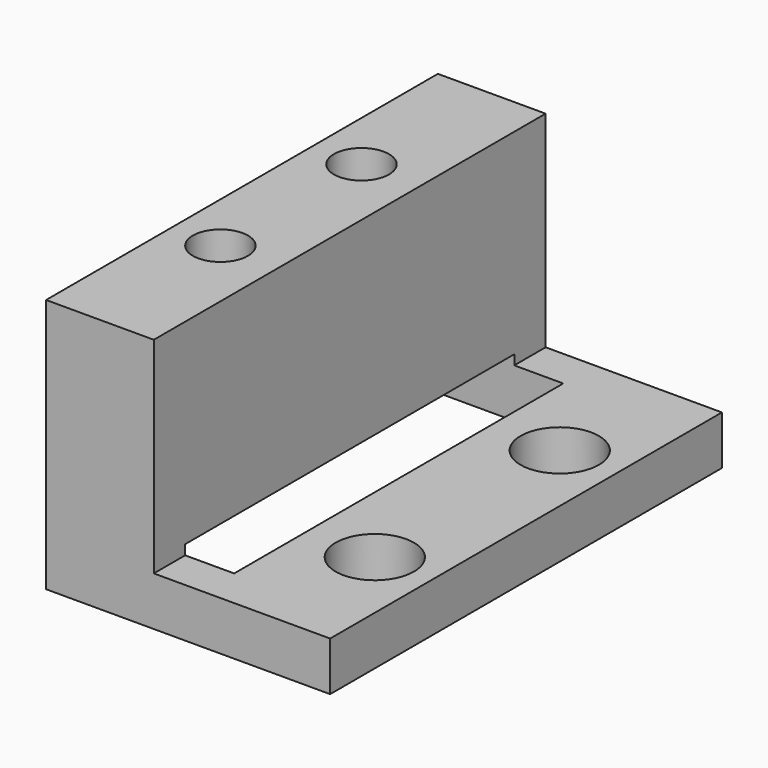
from build123d import *

# Parameters (mm, degrees)
F0_R     = 2
F1_DEPTH = 2.5
F2_R     = 1.405868
F3_DEPTH = 13
F4_W     = 8.5
F4_H     = 21
F5_DEPTH = 3


with BuildPart() as f1:
    # F0 (on Top) → F1 (new body)
    with BuildSketch(Plane.XY):
        with BuildLine():
            ThreePointArc((35.5, 18.4), (32.085786, 19.814214), (33.5, 16.4))
            ThreePointArc((33.5, 16.4), (34.914214, 16.985786), (35.5, 18.4))
        make_face()
        Polygon((26, 12.5), (26, 0), (36.5, 0), (36.5, 25), (26, 25), align=None)
        with Locations((33.5, 6.6)):
            Circle(F0_R, mode=Mode.SUBTRACT)
        with BuildLine():
            ThreePointArc((35.5, 18.4), (34.914214, 16.985786), (33.5, 16.4))
            ThreePointArc((33.5, 16.4), (32.085786, 19.814214), (35.5, 18.4))
        make_face(mode=Mode.SUBTRACT)
    extrude(amount=F1_DEPTH)

    # F2 (on Top) → F3 (join)
    with BuildSketch(Plane.XY):
        with BuildLine():
            ThreePointArc((25.905868, 17), (23.505901, 17.994099), (24.5, 15.594132))
            ThreePointArc((24.5, 15.594132), (25.494099, 16.005901), (25.905868, 17))
        make_face()
        Polygon((22, 12.5), (22, 0), (27.5, 0), (27.5, 25), (22, 25), align=None)
        with Locations((24.5, 8)):
            Circle(F2_R, mode=Mode.SUBTRACT)
        with BuildLine():
            ThreePointArc((25.905868, 17), (25.494099, 16.005901), (24.5, 15.594132))
            ThreePointArc((24.5, 15.594132), (23.505901, 17.994099), (25.905868, 17))
        make_face(mode=Mode.SUBTRACT)
    extrude(amount=F3_DEPTH)

    # F4 (on Top) → F5 (cut)
    with BuildSketch(Plane.XY):
        with Locations((25.75, 12.5)):
            Rectangle(F4_W, F4_H)
    extrude(amount=F5_DEPTH, mode=Mode.SUBTRACT)


solid = f1.part
